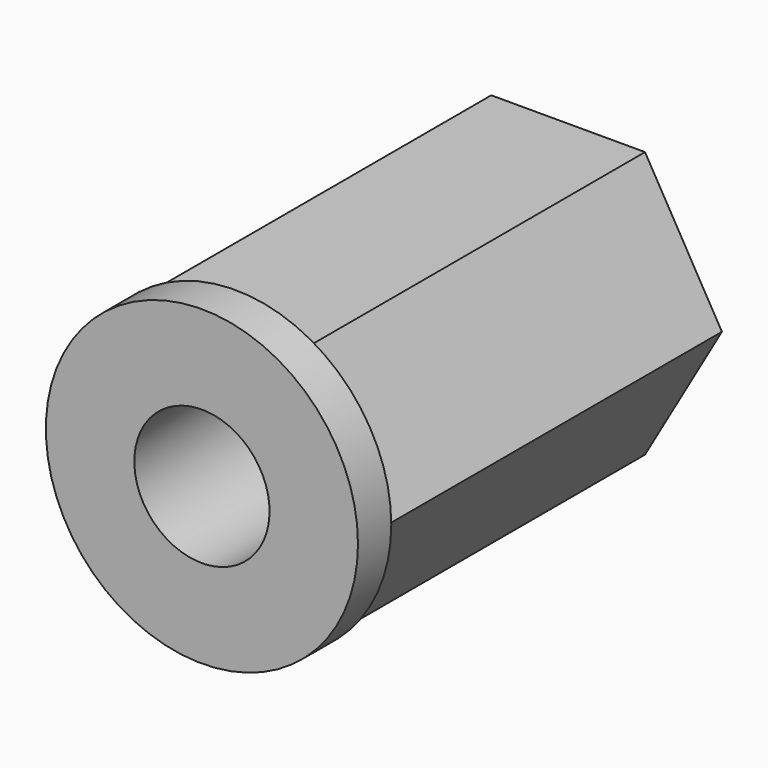
from build123d import *

# Parameters (mm, degrees)
F0_R     = 7.5
F1_DEPTH = 22
F2_R     = 8
F3_DEPTH = 20
F5_DEPTH = 22.001
F6_R     = 3.25
F7_DEPTH = 4


with BuildPart() as f1:
    # F0 (on Front) → F1 (new body)
    with BuildSketch(Plane.XZ):
        Circle(F0_R)
    extrude(amount=-F1_DEPTH)

    # F2 (on face) → F3 (cut)
    with BuildSketch(Plane(origin=(0, 22, 0), x_dir=(-1, 0, 0), z_dir=(0, 1, 0))):
        Circle(F2_R)
        Polygon((3.695042, 6.4), (7.390083, 0), (3.695042, -6.4), (-3.695042, -6.4), (-7.390083, 0), (-3.695042, 6.4), align=None, mode=Mode.SUBTRACT)
    extrude(amount=-F3_DEPTH, mode=Mode.SUBTRACT)

    # F4 (on face) → F5 (cut, through all)
    with BuildSketch(Plane.XZ):
        with BuildLine():
            Line((2.244994, 2.35), (-2.244994, 2.35))
            ThreePointArc((-2.244994, 2.35), (0, -3.25), (2.244994, 2.35))
        make_face()
    extrude(amount=-F5_DEPTH, mode=Mode.SUBTRACT)

    # F6 (on face) → F7 (cut)
    with BuildSketch(Plane.XZ):
        Circle(F6_R)
    extrude(amount=-F7_DEPTH, mode=Mode.SUBTRACT)


solid = f1.part
